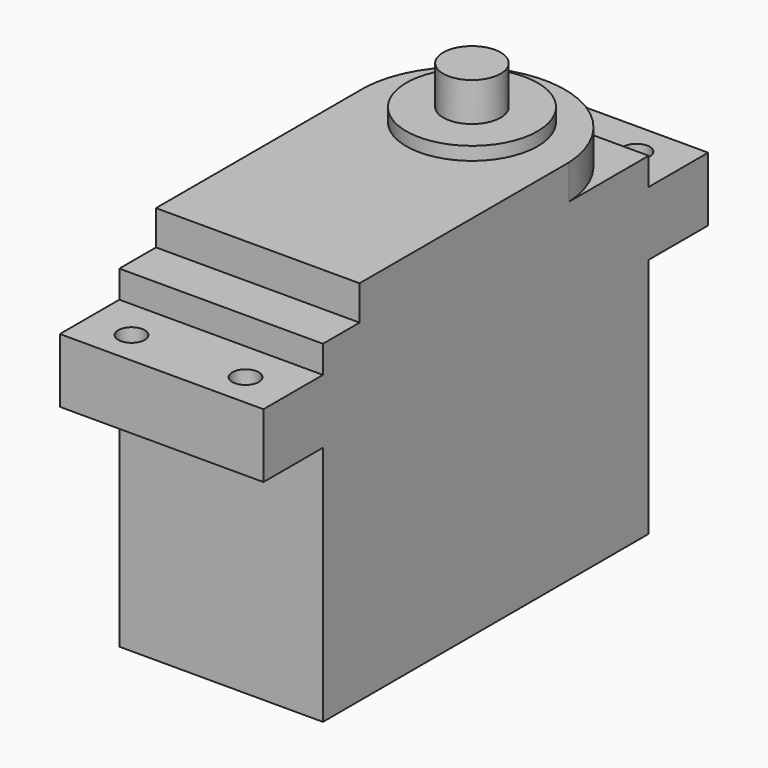
from build123d import *

# Parameters (mm, degrees)
F0_W      = 20
F0_H      = 40
F0_R      = 6.45
F0_R_2    = 2.825
F1_DEPTH  = 36.1
F2_W      = 20
F2_H      = 6.3
F3_DEPTH  = 7.3
F4_W      = 20
F4_H      = 6.3
F5_DEPTH  = 7.3
F6_DEPTH  = 41.2
F7_DEPTH  = 37.4
F9_W      = 20
F9_H      = 4.5
F10_DEPTH = 3.4
F8_R      = 1.3
F11_DEPTH = 8


with BuildPart() as f1:
    # F0 (on Top) → F1 (new body)
    with BuildSketch(Plane.XY):
        Rectangle(F0_W, F0_H)
        with Locations((0, 10.8)):
            Circle(F0_R, mode=Mode.SUBTRACT)
        with Locations((0, 10.8)):
            Circle(F0_R)
        with Locations((0, 10.8)):
            Circle(F0_R_2, mode=Mode.SUBTRACT)
        with Locations((0, 10.8)):
            Circle(F0_R_2)
    extrude(amount=F1_DEPTH)

    # F2 (on face) → F3 (join)
    with BuildSketch(Plane(origin=(0, 20, 0), x_dir=(-1, 0, 0), z_dir=(0, 1, 0))):
        with Locations((0, 26.85)):
            Rectangle(F2_W, F2_H)
    extrude(amount=F3_DEPTH)

    # F4 (on face) → F5 (join)
    with BuildSketch(Plane.XZ.offset(20)):
        with Locations((0, 26.858872)):
            Rectangle(F4_W, F4_H)
    extrude(amount=F5_DEPTH)

    # F0 (on Top) → F6 (join)
    with BuildSketch(Plane.XY):
        with Locations((0, 10.8)):
            Circle(F0_R_2)
    extrude(amount=F6_DEPTH)

    # F0 (on Top) → F7 (join)
    with BuildSketch(Plane.XY):
        with Locations((0, 10.8)):
            Circle(F0_R)
        with Locations((0, 10.8)):
            Circle(F0_R_2, mode=Mode.SUBTRACT)
    extrude(amount=F7_DEPTH)

    # F9 (on face) → F10 (cut)
    with BuildSketch(Plane.XY.offset(36.1)):
        with BuildLine():
            Line((-10, 20), (-10, 10.213363))
            ThreePointArc((-10, 10.213363), (-4e-06, 19.71317), (10, 10.213371))
            Line((10, 10.213371), (10, 20))
            Line((10, 20), (-10, 20))
        make_face()
        with Locations((0, -17.75)):
            Rectangle(F9_W, F9_H)
    extrude(amount=-F10_DEPTH, mode=Mode.SUBTRACT)

    # F8 (on face) → F11 (cut)
    with BuildSketch(Plane.XY.offset(30.008872)):
        with Locations((5.6, -24)):
            Circle(F8_R)
        with Locations((-5.6, -24)):
            Circle(F8_R)
        with Locations((5.6, 24)):
            Circle(F8_R)
        with Locations((-5.6, 24)):
            Circle(F8_R)
    extrude(amount=-F11_DEPTH, mode=Mode.SUBTRACT)


solid = f1.part
